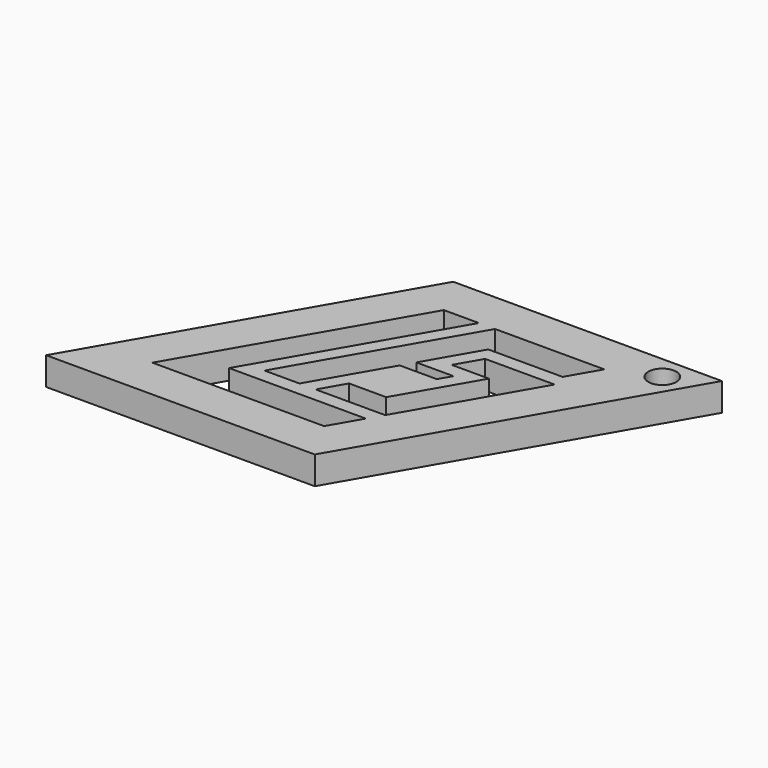
from build123d import *

# Parameters (mm, degrees)
F0_R     = 1
F1_DEPTH = 2


with BuildPart() as f1:
    # F0 (on Top) → F1 (new body)
    with BuildSketch(Plane.XY):
        Polygon((0.368802, -11.361216), (12.564955, 9.76314), (-6.636751, 9.76314), (-18.832904, -11.361216), align=None)
        Polygon((-4.5, -5.196152), (-3.5, -3.464102), (-0.845299, -3.464102), (2.232051, 1.866025), (-0.42265, 1.866025), (0.57735, 3.598076), (5.541452, 3.598076), (0.464102, -5.196152), align=None, mode=Mode.SUBTRACT)
        Polygon((-4.904701, 6.76314), (-2.404701, 6.76314), (-9.886751, -6.196152), (-0.113249, -6.196152), (-1.363249, -8.361216), (-13.636751, -8.361216), align=None, mode=Mode.SUBTRACT)
        Polygon((-5.654701, -5.196152), (-8.154701, -5.196152), (-1.25, 6.76314), (6.559401, 6.76314), (5.309401, 4.598076), (2.654701, 4.598076), (0, 4.598076), (-2.154701, 0.866025), (0.5, 0.866025), (0, 0), (-2.654701, 0), align=None, mode=Mode.SUBTRACT)
        with Locations((9.652769, 8.081789)):
            Circle(F0_R, mode=Mode.SUBTRACT)
    extrude(amount=F1_DEPTH)


solid = f1.part
